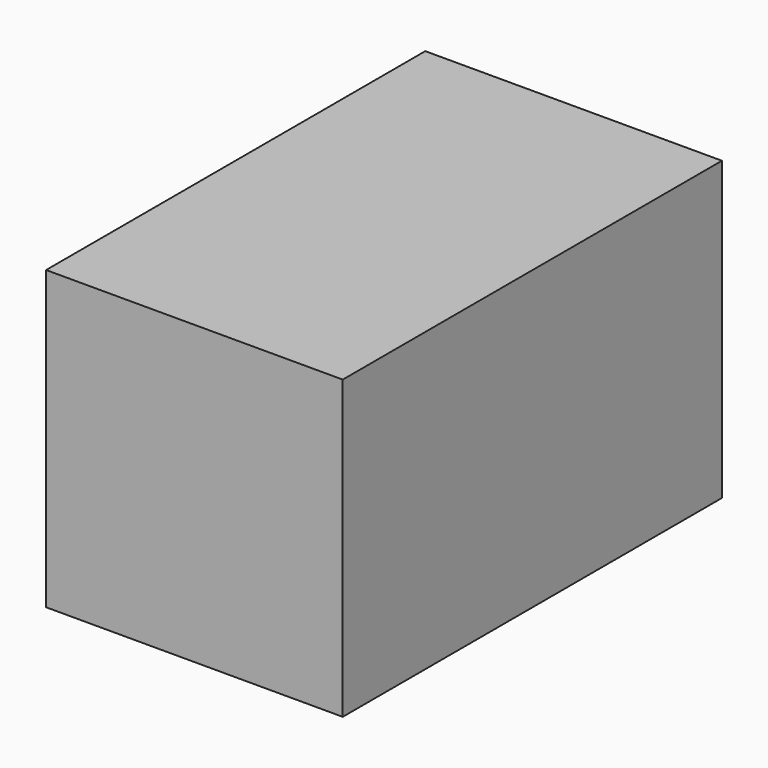
from build123d import *

# Parameters (mm, degrees)
F0_W     = 15.89738
F0_H     = 15.910998
F1_DEPTH = 4.798125
F2_DEPTH = 25.4


with BuildPart() as f1:
    # F0 (on Front) → F1 (new body)
    with BuildSketch(Plane.XZ):
        with Locations((18.297016, 23.013577)):
            Rectangle(F0_W, F0_H)
    extrude(amount=F1_DEPTH)

    # F0 (on Front) → F2 (join)
    with BuildSketch(Plane.XZ):
        with Locations((18.297016, 23.013577)):
            Rectangle(F0_W, F0_H)
    extrude(amount=F2_DEPTH)


solid = f1.part
